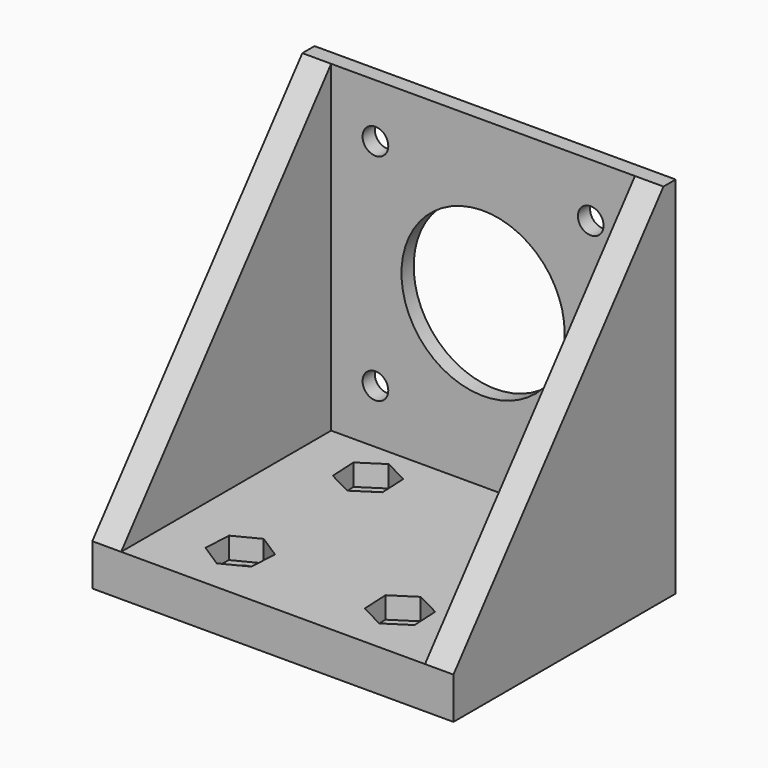
from build123d import *

# Parameters (mm, degrees)
F0_W      = 52
F0_H      = 40
F1_DEPTH  = 6
F2_W      = 52
F2_H      = 2.2
F3_DEPTH  = 46.5
F5_DEPTH  = 4.1
F7_DEPTH  = 4.15
F8_R      = 11.75
F8_R_2    = 1.85
F9_DEPTH  = 25
F10_R     = 2.5
F11_DEPTH = 25
F13_DEPTH = 3.1


with BuildPart() as f1:
    # F0 (on Top) → F1 (new body)
    with BuildSketch(Plane.XY):
        with Locations((2.012877, -3.704458)):
            Rectangle(F0_W, F0_H)
    extrude(amount=F1_DEPTH)

    # F2 (on face) → F3 (join)
    with BuildSketch(Plane.XY.offset(6)):
        with Locations((2.012877, 15.195542)):
            Rectangle(F2_W, F2_H)
    extrude(amount=F3_DEPTH)

    # F4 (on face) → F5 (join)
    with BuildSketch(Plane.YZ.offset(28.012877)):
        Polygon((14.095542, 52.5), (-23.704458, 6), (14.095542, 6), align=None)
    extrude(amount=-F5_DEPTH)

    # F6 (on face) → F7 (join)
    with BuildSketch(Plane(origin=(-23.987123, 0, 0), x_dir=(0, -1, 0), z_dir=(-1, 0, 0))):
        Polygon((23.704458, 6), (-14.095542, 52.5), (-14.095542, 6), align=None)
    extrude(amount=-F7_DEPTH)

    # F8 (on face) → F9 (cut)
    with BuildSketch(Plane.XZ.offset(-14.095542)):
        with Locations((2.037877, 29.25)):
            Circle(F8_R)
        with Locations((17.537877, 44.75)):
            Circle(F8_R_2)
        with Locations((-13.462123, 44.75)):
            Circle(F8_R_2)
        with Locations((-13.462123, 13.75)):
            Circle(F8_R_2)
        with Locations((17.537877, 13.75)):
            Circle(F8_R_2)
    extrude(amount=-F9_DEPTH, mode=Mode.SUBTRACT)

    # F10 (on face) → F11 (cut)
    with BuildSketch(Plane(origin=(0, 0, 0), x_dir=(1, 0, 0), z_dir=(0, 0, -1))):
        with Locations((13.512877, 15.204458)):
            Circle(F10_R)
        with Locations((-9.487123, 15.204458)):
            Circle(F10_R)
        with Locations((-9.487123, -7.795542)):
            Circle(F10_R)
        with Locations((13.512877, -7.795542)):
            Circle(F10_R)
    extrude(amount=-F11_DEPTH, mode=Mode.SUBTRACT)

    # F12 (on face) → F13 (cut)
    with BuildSketch(Plane.XY.offset(6)):
        Polygon((13.312949, -11.225761), (9.96726, -13.388251), (10.167187, -17.366948), (13.712804, -19.183154), (17.058493, -17.020664), (16.858566, -13.041967), align=None)
        Polygon((13.712804, 11.774239), (10.167187, 9.958033), (9.96726, 5.979336), (13.312949, 3.816846), (16.858566, 5.633052), (17.058493, 9.611749), align=None)
        Polygon((-13.03274, -17.020664), (-9.687051, -19.183154), (-6.141434, -17.366948), (-5.941507, -13.388251), (-9.287196, -11.225761), (-12.832813, -13.041967), align=None)
        Polygon((-5.941507, 5.979336), (-6.141434, 9.958033), (-9.687051, 11.774239), (-13.03274, 9.611749), (-12.832813, 5.633052), (-9.287196, 3.816846), align=None)
    extrude(amount=-F13_DEPTH, mode=Mode.SUBTRACT)


solid = f1.part
